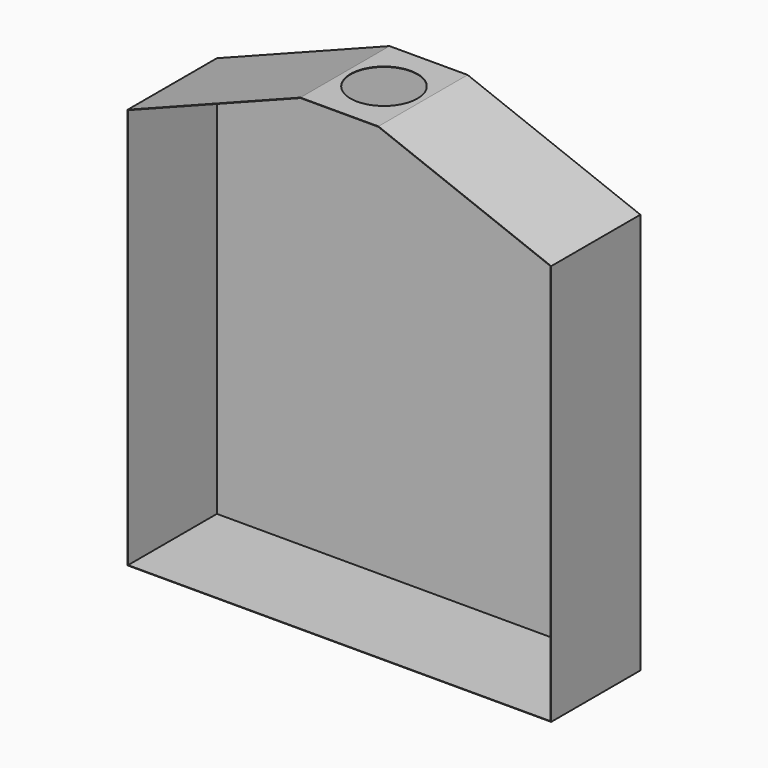
from build123d import *

# Parameters (mm, degrees)
F0_W     = 1900
F0_H     = 1800
F1_DEPTH = 250
F2_T     = -2
F4_D     = 300
F4_DEPTH = 1200.001


with BuildPart() as f1:
    # F0 (on Front) → F1 (new body, symmetric)
    with BuildSketch(Plane.XZ):
        Rectangle(F0_W, F0_H)
        Polygon((-950, 900), (950, 900), (175, 1200), (0, 1200), (-175, 1200), align=None)
    extrude(amount=F1_DEPTH, both=True)

    # F2
    f2_openings = [f1.faces().sort_by_distance(p)[0] for p in [
        (0, -250, 91.217565),
    ]]
    offset(amount=F2_T, openings=f2_openings)

    # F4 (through all, one way)
    with BuildSketch(Plane(origin=(0, 0, 0), x_dir=(1, 0, 0), z_dir=(0, 0, -1))):
        with Locations((0, 0)):
            Circle(F4_D / 2)
    extrude(amount=-F4_DEPTH, mode=Mode.SUBTRACT)


solid = f1.part
